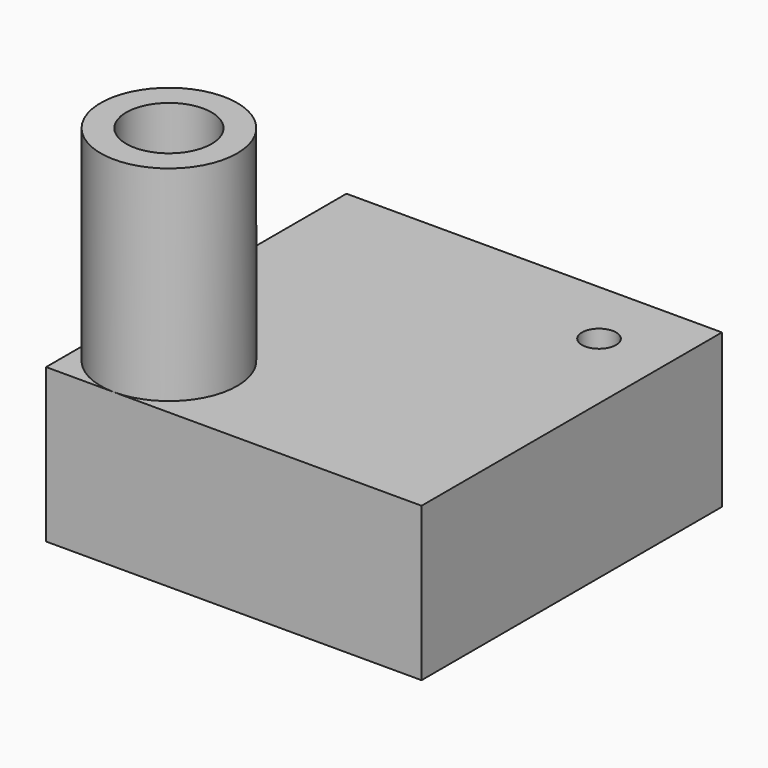
from build123d import *

# Parameters (mm, degrees)
TORUS_R           = 3.5
CYLINDER002_R     = 1
CYLINDER002_DEPTH = 10
CYLINDER_R        = 2.5
CYLINDER_DEPTH    = 17
CYLINDER001_R     = 4
CYLINDER001_DEPTH = 17
BOX_W             = 22
BOX_H             = 22
BOX_DEPTH         = 9


with BuildPart() as torus:
    # Torus → Torus (revolve)
    with BuildSketch(Plane(origin=(3, 3, 4), x_dir=(1, 0, 0), z_dir=(0, -1, 0))):
        with Locations((7, 0)):
            Circle(TORUS_R)
    revolve(axis=Axis((3, 3, 4), (0, 0, 1)))


with BuildPart() as cylinder002:
    # Cylinder002 → Cylinder002 (new body)
    with BuildSketch(Plane(origin=(10, 10, 7), x_dir=(1, 0, 0), z_dir=(0, 0, 1))):
        Circle(CYLINDER002_R)
    extrude(amount=CYLINDER002_DEPTH)


with BuildPart() as fusion:
    # Cylinder → Cylinder (new body)
    with BuildSketch(Plane(origin=(-4, -4, 4), x_dir=(1, 0, 0), z_dir=(0, 0, 1))):
        Circle(CYLINDER_R)
    extrude(amount=CYLINDER_DEPTH)

    # Fusion: union Torus, Cylinder002
    add(torus.part)
    add(cylinder002.part)


with BuildPart() as cylinder001:
    # Cylinder001 → Cylinder001 (new body)
    with BuildSketch(Plane(origin=(-4, -4, 4), x_dir=(1, 0, 0), z_dir=(0, 0, 1))):
        Circle(CYLINDER001_R)
    extrude(amount=CYLINDER001_DEPTH)


with BuildPart() as cut:
    # Box → Box (new body)
    with BuildSketch(Plane(origin=(-8, -8, 0), x_dir=(1, 0, 0), z_dir=(0, 0, 1))):
        with Locations((11, 11)):
            Rectangle(BOX_W, BOX_H)
    extrude(amount=BOX_DEPTH)

    # Fusion001: union Cylinder001
    add(cylinder001.part)

    # Cut: cut Fusion
    add(fusion.part, mode=Mode.SUBTRACT)


solid = cut.part
